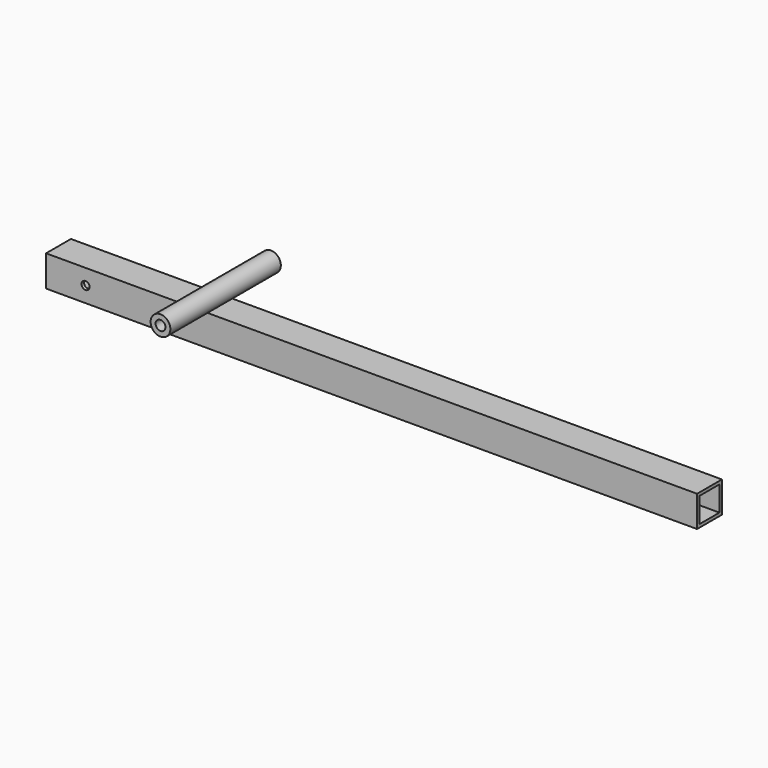
from build123d import *

# Parameters (mm, degrees)
F0_W     = 40
F0_H     = 40
F0_W_2   = 32
F0_H_2   = 32
F1_DEPTH = 838.2
F4_D     = 10.3
F5_R     = 12.7
F5_R_2   = 6.35
F6_DEPTH = 88.9


with BuildPart() as f1:
    # F0 (on Right) → F1 (new body)
    with BuildSketch(Plane.YZ):
        with Locations((20, 20)):
            Rectangle(F0_W, F0_H)
        with Locations((20, 20)):
            Rectangle(F0_W_2, F0_H_2, mode=Mode.SUBTRACT)
    extrude(amount=F1_DEPTH)

    # F4 (through all)
    with Locations(Plane.XZ):
        with Locations((50.8, 20)):
            Hole(F4_D / 2)

    # F5 (on offset) → F6 (join, symmetric)
    with BuildSketch(Plane.XZ.offset(-19.05)):
        with Locations((203.2, 52.7)):
            Circle(F5_R)
        with Locations((203.2, 52.7)):
            Circle(F5_R_2, mode=Mode.SUBTRACT)
    extrude(amount=F6_DEPTH, both=True)


solid = f1.part
